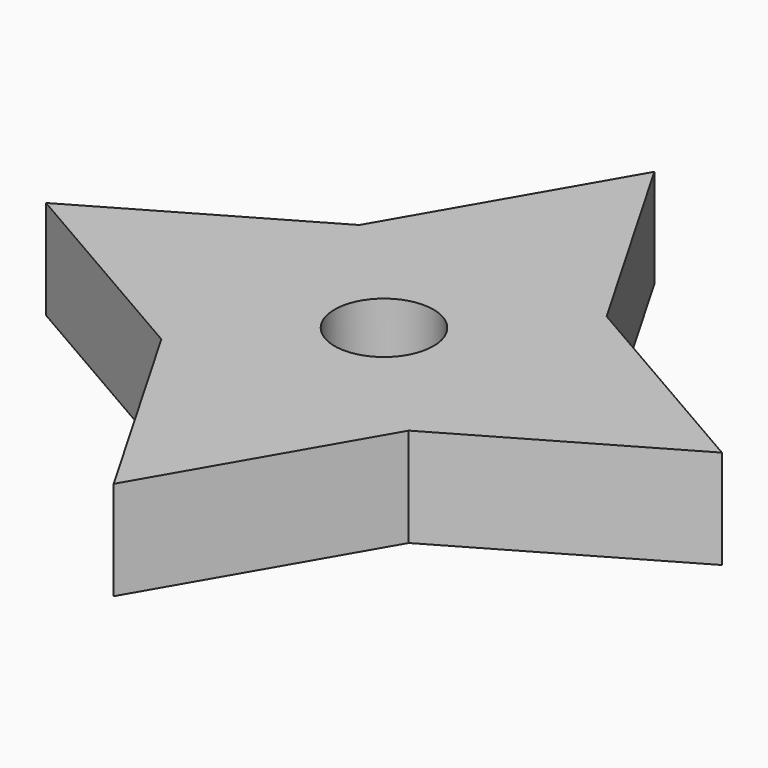
from build123d import *

# Parameters (mm, degrees)
F0_W          = 50
F0_H          = 50
F1_DEPTH      = 10
F1_DEPTH_BACK = 10
F2_R          = 10
F3_DEPTH      = 20.001


with BuildPart() as f1:
    # F0 (on Top) → F1 (new body, two sides)
    with BuildSketch(Plane.XY) as f1_sk:
        Rectangle(F0_W, F0_H)
        Polygon((68.3012701892, 0), (25, 25), (25, -25), align=None)
        Polygon((-25, 25), (25, 25), (0, 68.3012701892), align=None)
        Polygon((-25, -25), (-25, 25), (-68.3012701892, 0), align=None)
        Polygon((0, -68.3012701892), (25, -25), (-25, -25), align=None)
    extrude(amount=F1_DEPTH)
    extrude(f1_sk.sketch, amount=-F1_DEPTH_BACK)

    # F2 (on face) → F3 (cut, through all)
    with BuildSketch(Plane.XY.offset(10)):
        Circle(F2_R)
    extrude(amount=-F3_DEPTH, mode=Mode.SUBTRACT)


solid = f1.part
